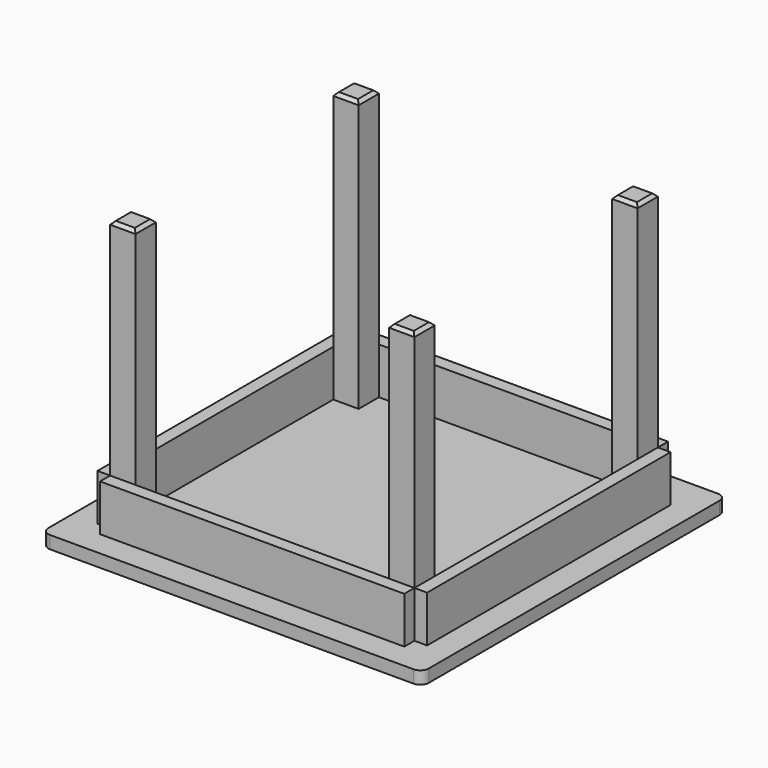
from build123d import *

# Parameters (mm, degrees)
F0_W      = 1143
F0_H      = 1143
F1_DEPTH  = 38.1
F2_R      = 25.4
F3_W      = 76.2
F3_H      = 76.2
F4_DEPTH  = 812.8
F5_W      = 38.1
F5_H      = 914.4
F6_DEPTH  = 139.7
F7_W      = 914.4
F7_H      = 38.1
F8_DEPTH  = 139.7
F9_SIZE   = 9.525
F12_DEPTH = 19.05
F13_COUNT = 4
F13_ANGLE = 1080


with BuildPart() as f1:
    # F0 (on Top) → F1 (new body)
    with BuildSketch(Plane.XY):
        with Locations((571.5, 571.5)):
            Rectangle(F0_W, F0_H)
    extrude(amount=F1_DEPTH)

    # F2
    f2_edges = [f1.edges().sort_by_distance(p)[0] for p in [
        (0, 0, 19.05),
        (1143, 0, 19.05),
        (0, 1143, 19.05),
        (1143, 1143, 19.05),
    ]]
    fillet(f2_edges, radius=F2_R)


with BuildPart() as f4:
    # F3 (on face) → F4 (new body)
    with BuildSketch(Plane.XY.offset(38.1)):
        with Locations((152.4, 152.4)):
            Rectangle(F3_W, F3_H)
        with Locations((152.4, 990.6)):
            Rectangle(F3_W, F3_H)
        with Locations((990.6, 152.4)):
            Rectangle(F3_W, F3_H)
        with Locations((990.6, 990.6)):
            Rectangle(F3_W, F3_H)
    extrude(amount=F4_DEPTH)

    # F9
    f9_edges = [f4.edges().sort_by_distance(p)[0] for p in [
        (152.4, 1028.7, 850.9),
        (114.3, 990.6, 850.9),
        (152.4, 952.5, 850.9),
        (190.5, 990.6, 850.9),
        (1028.7, 990.6, 850.9),
        (990.6, 1028.7, 850.9),
        (952.5, 990.6, 850.9),
        (990.6, 952.5, 850.9),
        (114.3, 152.4, 850.9),
        (152.4, 114.3, 850.9),
        (190.5, 152.4, 850.9),
        (152.4, 190.5, 850.9),
        (952.5, 152.4, 850.9),
        (990.6, 114.3, 850.9),
        (1028.7, 152.4, 850.9),
        (990.6, 190.5, 850.9),
    ]]
    chamfer(f9_edges, length=F9_SIZE)


with BuildPart() as f6:
    # F5 (on face) → F6 (new body)
    with BuildSketch(Plane.XY.offset(38.1)):
        with Locations((95.25, 571.5)):
            Rectangle(F5_W, F5_H)
        with Locations((1047.75, 571.5)):
            Rectangle(F5_W, F5_H)
    extrude(amount=F6_DEPTH)


with BuildPart() as f8:
    # F7 (on face) → F8 (new body)
    with BuildSketch(Plane.XY.offset(38.1)):
        with Locations((571.5, 95.25)):
            Rectangle(F7_W, F7_H)
        with Locations((571.5, 1047.75)):
            Rectangle(F7_W, F7_H)
    extrude(amount=F8_DEPTH)


with BuildPart() as f12:
    # F11 (on face) → F12 (new body, symmetric)
    with BuildSketch(Plane(origin=(0, 1066.8, 0), x_dir=(-1, 0, 0), z_dir=(0, 1, 0))):
        with BuildLine():
            ThreePointArc((-990.6, 147.6375), (-987.232404, 149.032404), (-985.8375, 152.4))
            ThreePointArc((-985.8375, 152.4), (-993.967596, 155.767596), (-990.6, 147.6375))
        make_face()
        with BuildLine():
            ThreePointArc((-985.8375, 76.2), (-987.232404, 79.567596), (-990.6, 80.9625))
            ThreePointArc((-990.6, 80.9625), (-993.967596, 72.832404), (-985.8375, 76.2))
        make_face()
        with BuildLine():
            ThreePointArc((-147.6375, 63.5), (-149.032404, 66.867596), (-152.4, 68.2625))
            ThreePointArc((-152.4, 68.2625), (-155.767596, 60.132404), (-147.6375, 63.5))
        make_face()
        with BuildLine():
            ThreePointArc((-152.4, 134.9375), (-149.032404, 136.332404), (-147.6375, 139.7))
            ThreePointArc((-147.6375, 139.7), (-155.767596, 143.067596), (-152.4, 134.9375))
        make_face()
    extrude(amount=F12_DEPTH, both=True)


with BuildPart() as f13_1:
    # F13: instance of F12
    add(f12.part.rotate(Axis((114.3, 571.5, 38.1), (0, -1, 0)), 1 * F13_ANGLE / (F13_COUNT - 1)))


with BuildPart() as f13_2:
    # F13: instance of F12
    add(f12.part.rotate(Axis((114.3, 571.5, 38.1), (0, -1, 0)), 2 * F13_ANGLE / (F13_COUNT - 1)))


with BuildPart() as f13_3:
    # F13: instance of F12
    add(f12.part.rotate(Axis((114.3, 571.5, 38.1), (0, -1, 0)), 3 * F13_ANGLE / (F13_COUNT - 1)))


with BuildPart() as f8_1:
    add(f8.part)

    # F14: cut F12
    add(f12.part, mode=Mode.SUBTRACT)


solid = Compound([f1.part, f4.part, f6.part, f13_1.part, f13_2.part, f13_3.part, f8_1.part])
